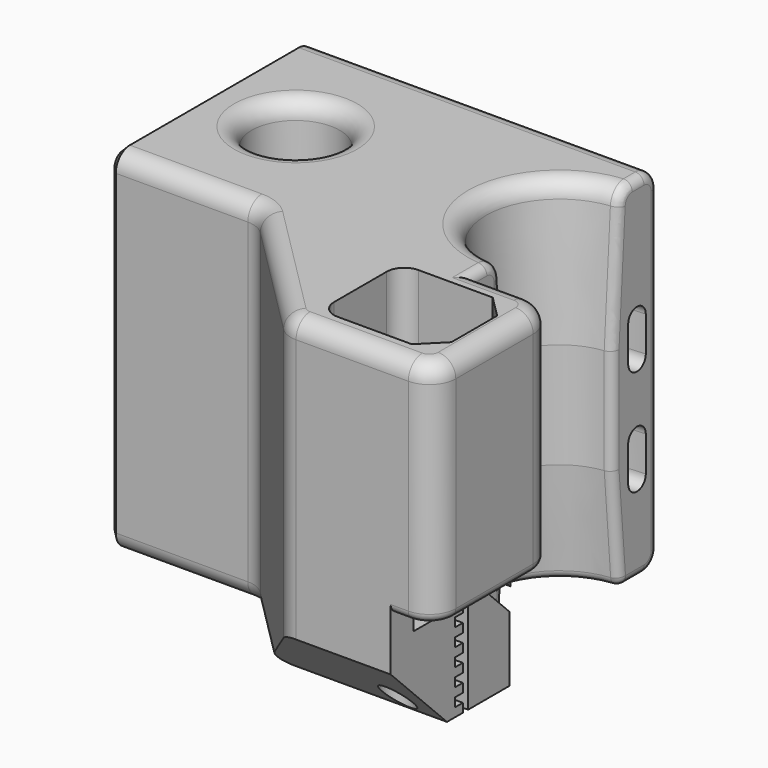
from build123d import *

# Parameters (mm, degrees)
PAD130_DEPTH         = 22
PAD130_DEPTH_BACK    = 18
SKETCH522_W          = 20
SKETCH522_H          = 20
POCKET412_DEPTH      = 22.001
POCKET413_DEPTH      = 24.001
SKETCH584_W          = 5
SKETCH584_H          = 14
POCKET414_DEPTH      = 14.001
POCKET414_DEPTH_BACK = 29.001
SKETCH585_R          = 1.75
POCKET415_DEPTH      = 18.001
POCKET415_DEPTH_BACK = 22.001
POCKET416_DEPTH      = 3
POCKET417_DEPTH      = 12.501
POCKET440_DEPTH      = 19.001
POCKET440_DEPTH_BACK = 30.001
SKETCH621_R          = 2.75
POCKET446_DEPTH      = 22.001
SKETCH622_R          = 5
POCKET447_DEPTH      = 12.001
FILLET030_R          = 2
FILLET031_R          = 1
CHAMFER037_SIZE      = 0.75


with BuildPart() as z_carriage_front_left:
    # Sketch582 → Pad130 (new body, two sides)
    with BuildSketch(Plane.XY) as pad130_sk:
        with BuildLine():
            Line((30, 14), (-10, 14))
            Line((-10, 14), (-10, -12))
            Line((-16, -12), (-10, -12))
            ThreePointArc((-16, -12), (-18.12132, -12.87868), (-19, -15))
            Line((-19, -26), (-19, -15))
            ThreePointArc((-19, -26), (-18.12132, -28.12132), (-16, -29))
            Line((-16, -29), (-3.242641, -29))
            ThreePointArc((-3.242641, -29), (-2.09459, -28.771639), (-1.12132, -28.12132))
            Line((-1.12132, -28.12132), (12.12132, -14.87868))
            ThreePointArc((14.242641, -14), (13.09459, -14.228361), (12.12132, -14.87868))
            Line((14.242641, -14), (30, -14))
            Line((30, -14), (30, 14))
        make_face()
    extrude(amount=PAD130_DEPTH)
    extrude(pad130_sk.sketch, amount=-PAD130_DEPTH_BACK)

    # Sketch522 → Pocket412 (cut, through all)
    with BuildSketch(Plane(origin=(8, 0, -4), x_dir=(0, 1, 0), z_dir=(1, 0, 0))):
        Rectangle(SKETCH522_W, SKETCH522_H)
    extrude(amount=POCKET412_DEPTH, mode=Mode.SUBTRACT)

    # Sketch583 → Pocket413 (cut, through all)
    with BuildSketch(Plane.XY.offset(-2)):
        with BuildLine():
            Line((-16.7, -17.25), (-16.7, -23.75))
            Line((-16.7, -23.75), (-14.2, -26.25))
            Line((-14.2, -26.25), (-5.75, -26.25))
            ThreePointArc((-5.75, -26.25), (-4.335786, -25.664214), (-3.75, -24.25))
            Line((-3.75, -24.25), (-3.75, -16.75))
            ThreePointArc((-3.75, -16.75), (-4.335786, -15.335786), (-5.75, -14.75))
            Line((-5.75, -14.75), (-14.2, -14.75))
            Line((-14.2, -14.75), (-16.7, -17.25))
        make_face()
    extrude(amount=POCKET413_DEPTH, mode=Mode.SUBTRACT)

    # Sketch584 → Pocket414 (cut, two sides)
    with BuildSketch(Plane.XZ) as pocket414_sk:
        with Locations((-16.5, -11)):
            Rectangle(SKETCH584_W, SKETCH584_H)
    extrude(amount=-POCKET414_DEPTH, mode=Mode.SUBTRACT)
    extrude(pocket414_sk.sketch, amount=POCKET414_DEPTH_BACK, mode=Mode.SUBTRACT)

    # Sketch585 → Pocket415 (cut, two sides)
    with BuildSketch(Plane.XY) as pocket415_sk:
        with Locations((-10, -23)):
            Circle(SKETCH585_R)
    extrude(amount=-POCKET415_DEPTH, mode=Mode.SUBTRACT)
    extrude(pocket415_sk.sketch, amount=POCKET415_DEPTH_BACK, mode=Mode.SUBTRACT)

    # Sketch586 → Pocket416 (cut)
    with BuildSketch(Plane.XY.offset(-4)):
        Polygon((-8.412287, -20.25), (-11.587713, -20.25), (-14, -20.25), (-14, -25.75), (-11.587713, -25.75), (-8.412287, -25.75), (-6.824574, -23), align=None)
    extrude(amount=-POCKET416_DEPTH, mode=Mode.SUBTRACT)

    # Sketch587 → Pocket417 (cut, through all)
    with BuildSketch(Plane(origin=(-6.5, 0, -1), x_dir=(0, 1, 0), z_dir=(1, 0, 0))):
        Polygon((-18, -18), (-18, -6), (-15.7, -6), (-12.133095, -9.566905), (-12.133095, -18), (-10.283095, -18), (-10.283095, -8.80061), (-13.111522, -5.972183), (-13.88934, -6.75), (-14.63934, -6), (-13.861522, -5.222183), (-14.611522, -4.472183), (-15.38934, -5.25), (-16.13934, -5.25), (-16.13934, -4.15), (-17.2, -4.15), (-17.2, -5.25), (-18, -5.25), (-18.777817, -4.472183), (-19.527817, -5.222183), (-18.75, -6), (-18.75, -7), (-19.85, -7), (-19.85, -8), (-18.75, -8), (-18.75, -9), (-19.85, -9), (-19.85, -10), (-18.75, -10), (-18.75, -11), (-19.85, -11), (-19.85, -12), (-18.75, -12), (-18.75, -13), (-19.85, -13), (-19.85, -14), (-18.75, -14), (-18.75, -15), (-19.85, -15), (-19.85, -16), (-18.75, -16), (-18.75, -17), (-19.85, -17), (-19.85, -18), align=None)
    extrude(amount=-POCKET417_DEPTH, mode=Mode.SUBTRACT)

    # Sketch615 → Pocket440 (cut, two sides)
    with BuildSketch(Plane.YZ) as pocket440_sk:
        Polygon((-21, -18), (-29, -10), (-29, -18), align=None)
    extrude(amount=-POCKET440_DEPTH, mode=Mode.SUBTRACT)
    extrude(pocket440_sk.sketch, amount=POCKET440_DEPTH_BACK, mode=Mode.SUBTRACT)

    # Sketch621 → Pocket446 (cut, through all)
    with BuildSketch(Plane.XY):
        with Locations((20, 0)):
            Circle(SKETCH621_R)
    extrude(amount=POCKET446_DEPTH, mode=Mode.SUBTRACT)

    # Sketch622 → Pocket447 (cut, through all)
    with BuildSketch(Plane.XY.offset(10)):
        with Locations((20, 0)):
            Circle(SKETCH622_R)
    extrude(amount=POCKET447_DEPTH, mode=Mode.SUBTRACT)

    # Sketch675 → Groove035 (revolve, cut)
    with BuildSketch(Plane.YZ.offset(-10)):
        Polygon((-8.5, 22), (-7.5, 6), (-7.5, -6), (-8.5, -18), (0, -18), (0, 22), align=None)
        with BuildLine():
            ThreePointArc((-9.75, 8), (-11, 9.25), (-12.25, 8))
            Line((-12.25, 8), (-12.25, 4))
            ThreePointArc((-12.25, 4), (-11, 2.75), (-9.75, 4))
            Line((-9.75, 8), (-9.75, 4))
        make_face()
        with BuildLine():
            ThreePointArc((-9.75, -4), (-11, -2.75), (-12.25, -4))
            Line((-12.25, -4), (-12.25, -8))
            ThreePointArc((-12.25, -8), (-11, -9.25), (-9.75, -8))
            Line((-9.75, -4), (-9.75, -8))
        make_face()
    revolve(axis=Axis((-10, 0, 0), (0, 0, 1)), mode=Mode.SUBTRACT)

    # Fillet030
    fillet030_edges = [z_carriage_front_left.edges().sort_by_distance(p)[0] for p in [
        (10, 14, 22),
        (10, 14, -18),
        (22.12132, -14, -18),
        (22.12132, -14, 22),
        (-1.5, 0, 22),
        (15, 0, 22),
    ]]
    fillet(fillet030_edges, radius=FILLET030_R)

    # Fillet031
    fillet031_edges = [z_carriage_front_left.edges().sort_by_distance(p)[0] for p in [
        (-1.5, 0, -18),
        (-10, -8, -12),
        (-10, 8, -12),
        (-10, -9.391548, -18),
        (-19, -20.5, -4),
    ]]
    fillet(fillet031_edges, radius=FILLET031_R)

    # Chamfer037
    chamfer037_edges = [z_carriage_front_left.edges().sort_by_distance(p)[0] for p in [
        (30, -14, 2),
        (30, -13.414214, -17.414214),
        (30, -13.414214, 21.414214),
        (30, 0, -18),
        (30, 0, 22),
        (30, 13.414214, -17.414214),
        (30, 13.414214, 21.414214),
        (30, 14, 2),
        (30, 0, 6),
        (30, 10, -4),
        (30, 0, -14),
        (30, -10, -4),
    ]]
    chamfer(chamfer037_edges, length=CHAMFER037_SIZE)


with BuildPart() as z_carriage_front_left_1:
    # Body180 placement: moved
    add(z_carriage_front_left.part.moved(Location((-150, -90, -2))))


with BuildPart() as z_carriage_front_right:
    # Part__Mirroring091: instance of z-carriage-front-left
    add(z_carriage_front_left_1.part.mirror(Plane(origin=(0, 0, 0), x_dir=(0, -1, 0), z_dir=(1, 0, 0))))


solid = z_carriage_front_right.part
